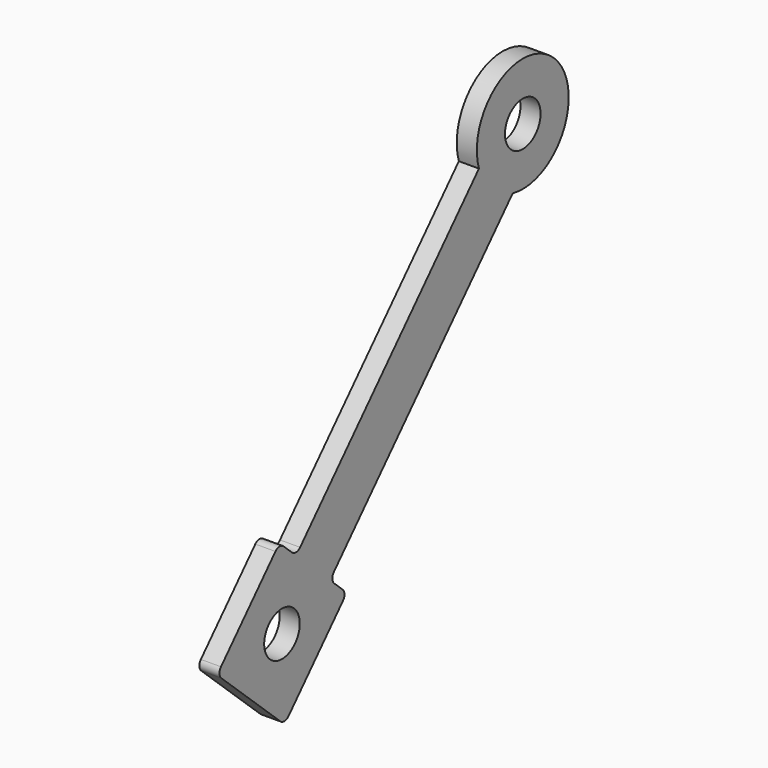
from build123d import *

# Parameters (mm, degrees)
SKETCH047_R  = 3.1
PAD039_DEPTH = 2.8
SKETCH048_R  = 3.1
PAD040_DEPTH = 2.8
FILLET_R     = 1


with BuildPart() as part:
    # Sketch047 (on DatumPlane) → Pad039 (new body)
    with BuildSketch(Plane.YZ.offset(30.1)):
        with BuildLine():
            ThreePointArc((-25.197793, -37.709891), (-32.374027, -51.397583), (-19.31538, -43.131811))
            Line((13.245686, -7.805279), (-19.31538, -43.131811))
            ThreePointArc((13.245686, -7.805279), (20.42192, 5.882413), (7.363273, -2.383359))
            Line((-25.197793, -37.709891), (7.363273, -2.383359))
        make_face()
        with Locations((-26.952107, -45.51517)):
            Circle(SKETCH047_R, mode=Mode.SUBTRACT)
        with Locations((15, 0)):
            Circle(SKETCH047_R, mode=Mode.SUBTRACT)
    extrude(amount=PAD039_DEPTH)

    # Sketch048 (on Face8 of Pad039) → Pad040 (join)
    with BuildSketch(Plane.YZ.offset(32.9)):
        Polygon((-38.25644, -45.975663), (-26.491614, -56.819503), (-15.647774, -45.054677), (-27.4126, -34.210837), align=None)
        with Locations((-26.952107, -45.51517)):
            Circle(SKETCH048_R, mode=Mode.SUBTRACT)
    extrude(amount=-PAD040_DEPTH)

    # Fillet
    fillet_edges = [part.edges().sort_by_distance(p)[0] for p in [
        (31.5, -27.4126, -34.210837),
        (31.5, -38.25644, -45.975663),
        (31.5, -26.491614, -56.819503),
        (31.5, -15.647774, -45.054677),
        (31.5, -18.588981, -42.343717),
        (31.5, -24.471393, -36.921797),
    ]]
    fillet(fillet_edges, radius=FILLET_R)


solid = part.part
